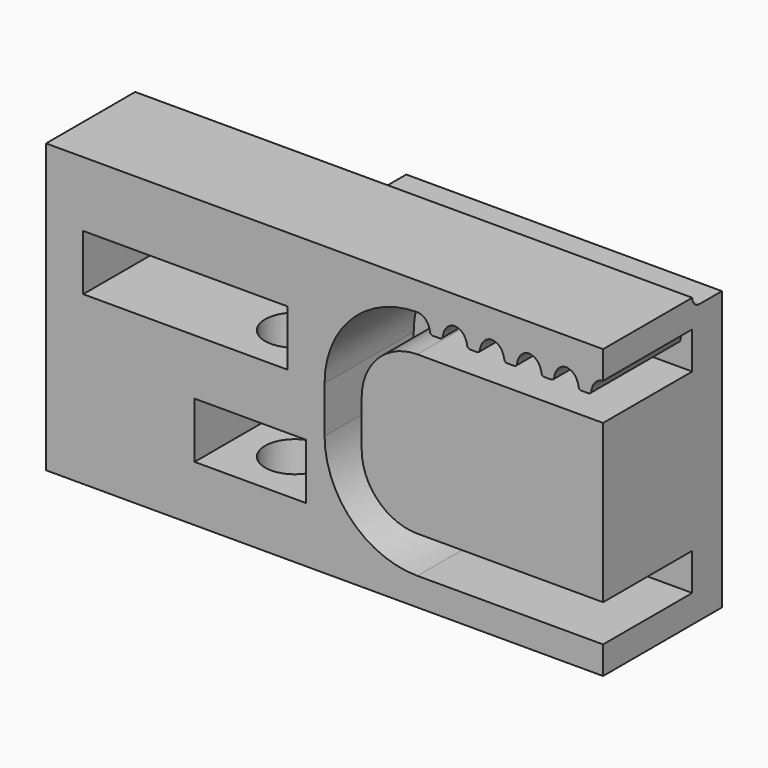
from build123d import *

# Parameters (mm, degrees)
SKETCH_W        = 10
SKETCH_H        = 15.5
PAD_DEPTH       = 30
POCKET001_DEPTH = 30.001
SKETCH003_W     = 3
SKETCH003_H     = 11
SKETCH003_H_2   = 1.990637
POCKET002_DEPTH = 10.001
SKETCH004_W     = 2
SKETCH004_H     = 13
POCKET003_DEPTH = 15.501
SKETCH005_W     = 2
SKETCH005_H     = 13
POCKET004_DEPTH = 15.501
POCKET005_DEPTH = 8
PAD001_DEPTH    = 8
SKETCH010_R     = 1.6
POCKET006_DEPTH = 10
SKETCH013_W     = 2
SKETCH013_H     = 20
POCKET008_DEPTH = 17.001
POCKET009_DEPTH = 3


with BuildPart() as framebase:
    # Sketch → Pad (new body)
    with BuildSketch(Plane.YZ):
        with Locations((5, 7.75)):
            Rectangle(SKETCH_W, SKETCH_H)
    extrude(amount=PAD_DEPTH)

    # Sketch002 (on DatumPlane) → Pocket001 (cut, through all)
    with BuildSketch(Plane(origin=(0, 10, 15.5), x_dir=(0, 1, 0), z_dir=(-1, 0, 0))):
        with BuildLine():
            ThreePointArc((0, -0.5), (0.5, 0), (0, 0.5))
            Line((0, 0.5), (-1.5, 0.5))
            ThreePointArc((-1.5, 0.5), (-2, 0), (-1.5, -0.5))
            Line((0, -0.5), (-1.5, -0.5))
        make_face()
    extrude(amount=-POCKET001_DEPTH, mode=Mode.SUBTRACT)

    # Sketch003 (on DatumPlane) → Pocket002 (cut, through all)
    with BuildSketch(Plane(origin=(30, 0, 15.5), x_dir=(0, 0, -1), z_dir=(0, -1, 0))):
        with Locations((5, -7.5)):
            Rectangle(SKETCH003_W, SKETCH003_H)
        with Locations((5, 0.995318)):
            Rectangle(SKETCH003_W, SKETCH003_H_2)
    extrude(amount=-POCKET002_DEPTH, mode=Mode.SUBTRACT)

    # Sketch004 (on DatumPlane) → Pocket003 (cut, through all)
    with BuildSketch(Plane(origin=(30, 0, 15.5), x_dir=(0, -1, 0), z_dir=(0, 0, 1))):
        with Locations((-1, -6.5)):
            Rectangle(SKETCH004_W, SKETCH004_H)
    extrude(amount=-POCKET003_DEPTH, mode=Mode.SUBTRACT)

    # Sketch005 (on DatumPlane) → Pocket004 (cut, through all)
    with BuildSketch(Plane(origin=(30, 10, 15.5), x_dir=(0, -1, 0), z_dir=(0, 0, 1))):
        with Locations((1, -6.5)):
            Rectangle(SKETCH005_W, SKETCH005_H)
    extrude(amount=-POCKET004_DEPTH, mode=Mode.SUBTRACT)

    # Sketch006 (on DatumPlane) → Pocket005 (cut)
    with BuildSketch(Plane(origin=(0, 0, 15.5), x_dir=(0, 0, -1), z_dir=(0, -1, 0))):
        with BuildLine():
            Line((1.5, 0), (3.5, 0))
            Line((3.5, 0), (3.5, 10))
            ThreePointArc((6.5, 13), (4.37868, 12.12132), (3.5, 10))
            Line((6.5, 13), (9, 13))
            ThreePointArc((12, 10), (11.12132, 12.12132), (9, 13))
            Line((12, 10), (12, 0))
            Line((12, 0), (14, 0))
            Line((14, 10), (14, 0))
            ThreePointArc((14, 10), (12.535534, 13.535534), (9, 15))
            Line((6.5, 15), (9, 15))
            ThreePointArc((6.5, 15), (2.964466, 13.535534), (1.5, 10))
            Line((1.5, 10), (1.5, 0))
        make_face()
    extrude(amount=-POCKET005_DEPTH, mode=Mode.SUBTRACT)

    # Sketch008 (on DatumPlane) → Pad001 (join)
    with BuildSketch(Plane(origin=(0, 8, 14), x_dir=(1, 0, 0), z_dir=(0, -1, 0))):
        with BuildLine():
            add(Edge.make_bspline(
                [(0, 0), (0.35359, -0.026741), (0.649381, -0.565336), (0.617792, -0.761919), (0.721021, -0.848783), (0.871627, -0.848783), (1.086099, -0.848783), (1.231939, -0.850694), (1.339653, -0.771577), (1.309148, -0.564354), (1.603926, -0.032231), (2, 0)],
                knots=[0, 0, 0, 0, 0.142857, 0.285714, 0.428571, 0.428571, 0.571429, 0.571429, 0.714286, 0.857143, 1, 1, 1, 1], degree=3))
            add(Edge.make_bspline(
                [(2, 0), (2.35359, -0.026741), (2.649381, -0.565336), (2.617792, -0.761919), (2.721021, -0.848783), (2.871627, -0.848783), (3.086099, -0.848783), (3.231939, -0.850694), (3.339653, -0.771577), (3.309148, -0.564354), (3.603926, -0.032231), (4, 0)],
                knots=[0, 0, 0, 0, 0.142857, 0.285714, 0.428571, 0.428571, 0.571429, 0.571429, 0.714286, 0.857143, 1, 1, 1, 1], degree=3))
            add(Edge.make_bspline(
                [(4, 0), (4.35359, -0.026741), (4.649381, -0.565336), (4.617792, -0.761919), (4.721021, -0.848783), (4.871627, -0.848783), (5.086099, -0.848783), (5.231939, -0.850694), (5.339653, -0.771577), (5.309148, -0.564354), (5.603926, -0.032231), (6, 0)],
                knots=[0, 0, 0, 0, 0.142857, 0.285714, 0.428571, 0.428571, 0.571429, 0.571429, 0.714286, 0.857143, 1, 1, 1, 1], degree=3))
            add(Edge.make_bspline(
                [(6, 0), (6.35359, -0.026741), (6.649381, -0.565336), (6.617792, -0.761919), (6.721021, -0.848783), (6.871627, -0.848783), (7.086099, -0.848783), (7.231939, -0.850694), (7.339653, -0.771577), (7.309148, -0.564354), (7.603926, -0.032231), (8, 0)],
                knots=[0, 0, 0, 0, 0.142857, 0.285714, 0.428571, 0.428571, 0.571429, 0.571429, 0.714286, 0.857143, 1, 1, 1, 1], degree=3))
            add(Edge.make_bspline(
                [(8, 0), (8.35359, -0.026741), (8.649381, -0.565336), (8.617792, -0.761919), (8.721021, -0.848783), (8.871627, -0.848783), (9.086099, -0.848783), (9.231939, -0.850694), (9.339653, -0.771577), (9.309148, -0.564354), (9.603926, -0.032231), (10, 0)],
                knots=[0, 0, 0, 0, 0.142857, 0.285714, 0.428571, 0.428571, 0.571429, 0.571429, 0.714286, 0.857143, 1, 1, 1, 1], degree=3))
            Line((10, 0), (10, 1))
            Line((10, 1), (0, 1))
            Line((0, 1), (0, 0))
        make_face()
    extrude(amount=PAD001_DEPTH)

    # Sketch010 (on DatumPlane) → Pocket006 (cut)
    with BuildSketch(Plane(origin=(30, 0, 0), x_dir=(0, 1, 0), z_dir=(0, 0, -1))):
        with Locations((5, -11)):
            Circle(SKETCH010_R)
    extrude(amount=-POCKET006_DEPTH, mode=Mode.SUBTRACT)

    # Sketch013 (on DatumPlane) → Pocket008 (cut, through all)
    with BuildSketch(Plane(origin=(17, 2, 15.5), x_dir=(0, -1, 0), z_dir=(1, 0, 0))):
        with Locations((1, 10)):
            Rectangle(SKETCH013_W, SKETCH013_H)
    extrude(amount=-POCKET008_DEPTH, mode=Mode.SUBTRACT)

    # Sketch014 (on DatumPlane) → Pocket009 (cut)
    with BuildSketch(Plane(origin=(30, 0, 3), x_dir=(0, 1, 0), z_dir=(0, 0, -1))):
        Polygon((8, -8), (2, -8), (2, -14), (8, -14), (18, -14), (18, -8), align=None)
    extrude(amount=-POCKET009_DEPTH, mode=Mode.SUBTRACT)


with BuildPart() as framebase_right_mirrored:
    # Part__Mirroring: instance of FrameBase
    add(framebase.part.mirror(Plane(origin=(0, 0, 0), x_dir=(0, -1, 0), z_dir=(1, 0, 0))))


solid = framebase_right_mirrored.part
